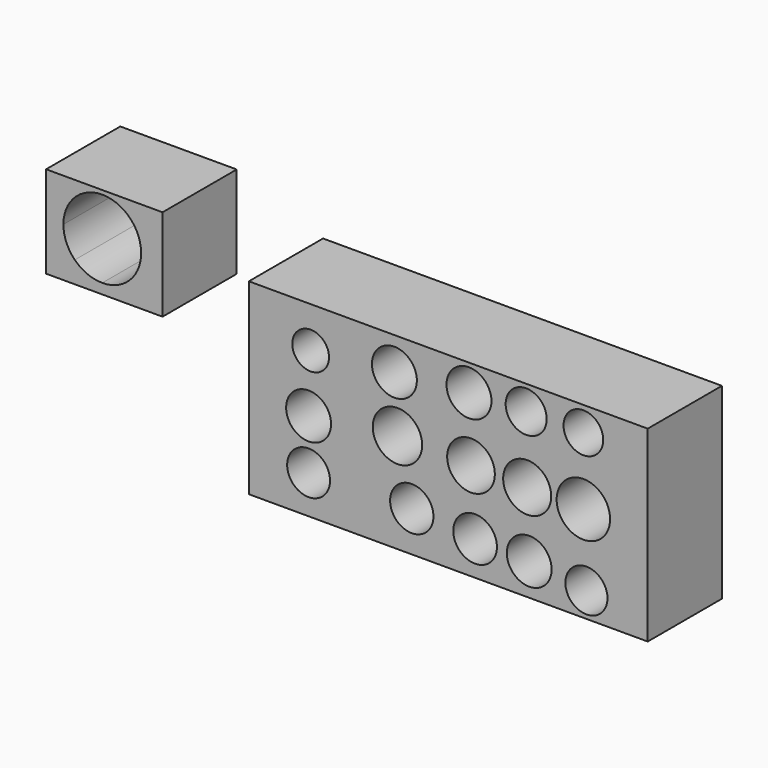
from build123d import *

# Parameters (mm, degrees)
F0_W     = 31.892098
F0_H     = 25.177978
F0_W_2   = 109.244429
F0_H_2   = 51.335089
F0_R     = 5.874859
F0_R_2   = 6.154614
F0_R_3   = 5.934506
F0_R_4   = 5.980485
F0_R_5   = 5.767301
F0_R_6   = 6.135509
F0_R_7   = 6.766375
F0_R_8   = 6.530948
F0_R_9   = 6.584652
F0_R_10  = 7.321896
F0_R_11  = 5.035592
F0_R_12  = 6.154612
F0_R_13  = 5.623009
F0_R_14  = 5.431863
F1_DEPTH = 25.4


with BuildPart() as f1:
    # F0 (on Front) → F1 (new body)
    with BuildSketch(Plane.XZ):
        with Locations((-39.585367, 47.698271)):
            Rectangle(F0_W, F0_H)
        with BuildLine():
            ThreePointArc((-48.096033, 55.615957), (-44.502181, 58.250353), (-40.144879, 59.182952))
            ThreePointArc((-40.144879, 59.182952), (-36.366402, 58.489822), (-33.079963, 56.500691))
            Line((-33.079963, 56.500691), (-32.628496, 56.980653))
            Line((-32.628496, 56.980653), (-33.06646, 56.488691))
            ThreePointArc((-33.06646, 56.488691), (-30.432064, 52.894839), (-29.499465, 48.537537))
            ThreePointArc((-29.499465, 48.537537), (-30.312792, 44.456493), (-32.628496, 40.999047))
            ThreePointArc((-32.628496, 40.999047), (-36.078278, 38.699468), (-40.144879, 37.892123))
            ThreePointArc((-40.144879, 37.892123), (-44.211481, 38.699468), (-47.661262, 40.999047))
            ThreePointArc((-47.661262, 40.999047), (-49.976966, 44.456493), (-50.790294, 48.537537))
            ThreePointArc((-50.790294, 48.537537), (-50.093954, 52.324458), (-48.096033, 55.615957))
        make_face(mode=Mode.SUBTRACT)
        with Locations((54.622214, 25.667544)):
            Rectangle(F0_W_2, F0_H_2)
        with Locations((16.365683, 10.490822)):
            Circle(F0_R, mode=Mode.SUBTRACT)
        with Locations((16.365683, 24.19883)):
            Circle(F0_R_2, mode=Mode.SUBTRACT)
        with Locations((44.620961, 11.050332)):
            Circle(F0_R_3, mode=Mode.SUBTRACT)
        with Locations((61.96579, 9.3718)):
            Circle(F0_R_4, mode=Mode.SUBTRACT)
        with Locations((92.459112, 6.854004)):
            Circle(F0_R_5, mode=Mode.SUBTRACT)
        with Locations((76.792814, 8.812291)):
            Circle(F0_R_6, mode=Mode.SUBTRACT)
        with Locations((40.704388, 27.276138)):
            Circle(F0_R_7, mode=Mode.SUBTRACT)
        with Locations((60.846768, 26.716627)):
            Circle(F0_R_8, mode=Mode.SUBTRACT)
        with Locations((76.233305, 26.436871)):
            Circle(F0_R_9, mode=Mode.SUBTRACT)
        with Locations((91.619849, 26.157115)):
            Circle(F0_R_10, mode=Mode.SUBTRACT)
        with Locations((16.925193, 40.144879)):
            Circle(F0_R_11, mode=Mode.SUBTRACT)
        with Locations((39.865125, 42.382922)):
            Circle(F0_R_12, mode=Mode.SUBTRACT)
        with Locations((60.28726, 44.061452)):
            Circle(F0_R_12, mode=Mode.SUBTRACT)
        with Locations((75.953551, 44.620961)):
            Circle(F0_R_13, mode=Mode.SUBTRACT)
        with Locations((91.619849, 44.620961)):
            Circle(F0_R_14, mode=Mode.SUBTRACT)
    extrude(amount=F1_DEPTH)


solid = f1.part
